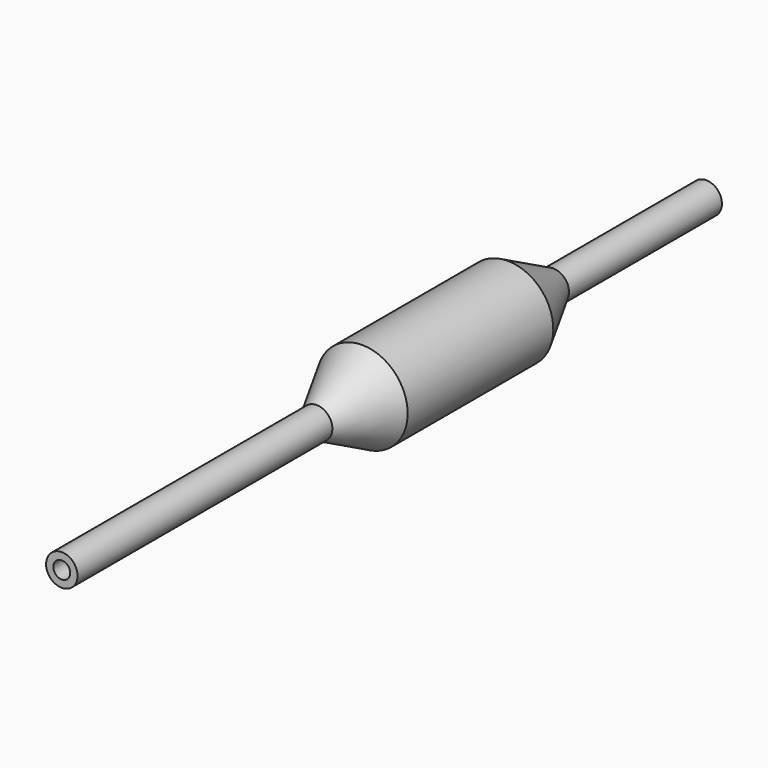
from build123d import *

# Parameters (mm, degrees)
F2_R     = 0.9271
F3_DEPTH = 12.7
F4_R     = 0.9271
F5_DEPTH = 12.7


with BuildPart() as f1:
    # F0 (on Right) → F1 (revolve)
    with BuildSketch(Plane.YZ):
        Polygon((0, 1.7272), (0, 0), (88.5, 0), (88.5, 1.7272), (67.5, 1.7272), (61.25, 5), (41.25, 5), (35, 1.7272), align=None)
    revolve(axis=Axis((0, 44.25, 0), (0, 1, 0)))

    # F2 (on face) → F3 (cut)
    with BuildSketch(Plane(origin=(0, 88.5, 0), x_dir=(-1, 0, 0), z_dir=(0, 1, 0))):
        Circle(F2_R)
    extrude(amount=-F3_DEPTH, mode=Mode.SUBTRACT)

    # F4 (on face) → F5 (cut)
    with BuildSketch(Plane.XZ):
        Circle(F4_R)
    extrude(amount=-F5_DEPTH, mode=Mode.SUBTRACT)


solid = f1.part
